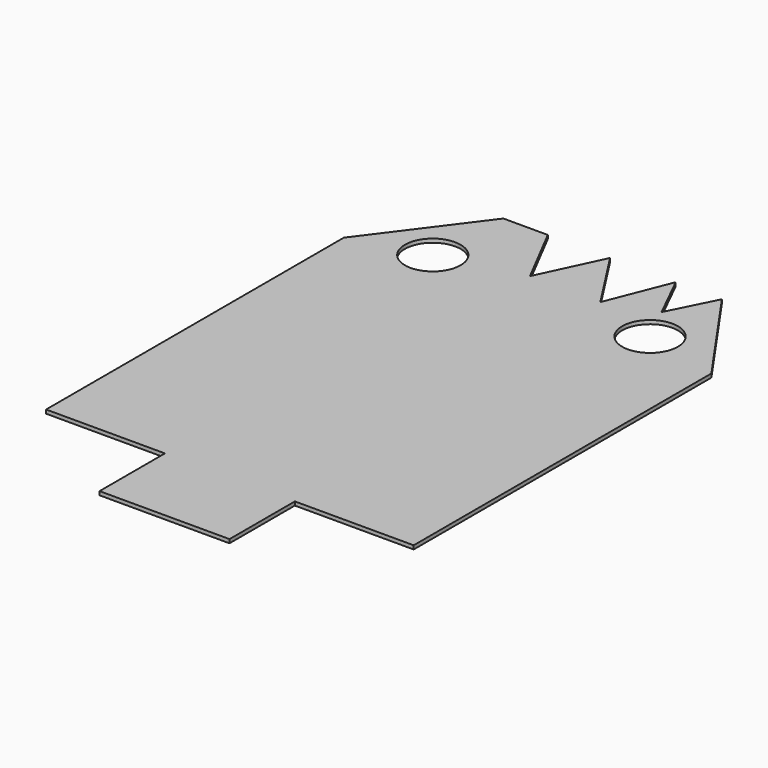
from build123d import *

# Parameters (mm, degrees)
F0_W     = 99
F0_H     = 150
F1_DEPTH = 1
F3_DEPTH = 25
F2_R     = 7.5
F2_W     = 32
F2_H     = 22
F4_DEPTH = 25
F5_DEPTH = 25


with BuildPart() as f1:
    # F0 (on Top) → F1 (new body)
    with BuildSketch(Plane.XY):
        Rectangle(F0_W, F0_H)
    extrude(amount=F1_DEPTH)

    # F2 (on face) → F3 (cut)
    with BuildSketch(Plane.XY.offset(1)):
        Polygon((30.116405, 75), (49.5, 47.219642), (49.5, 75), align=None)
        Polygon((-49.5, 47.219642), (-28.743548, 75), (-49.5, 75), align=None)
        Polygon((10.960037, 57.998028), (17.677084, 75), (0, 75), align=None)
        Polygon((23.862131, 62.487412), (30.116405, 75), (17.677084, 75), align=None)
        Polygon((-7.982026, 57.998028), (0, 75), (-16.782477, 75), align=None)
    extrude(amount=-F3_DEPTH, mode=Mode.SUBTRACT)

    # F2 (on face) → F4 (cut)
    with BuildSketch(Plane.XY.offset(1)):
        with Locations((-29.954113, 52.740462)):
            Circle(F2_R)
        with Locations((-33.5, -64)):
            Rectangle(F2_W, F2_H)
        with Locations((33.5, -64)):
            Rectangle(F2_W, F2_H)
        with Locations((28.908281, 52.315958)):
            Circle(F2_R)
    extrude(amount=-F4_DEPTH, mode=Mode.SUBTRACT)

    # F2 (on face) → F5 (cut)
    with BuildSketch(Plane.XY.offset(1)):
        with Locations((33.5, -64)):
            Rectangle(F2_W, F2_H)
        with Locations((-33.5, -64)):
            Rectangle(F2_W, F2_H)
    extrude(amount=-F5_DEPTH, mode=Mode.SUBTRACT)


solid = f1.part
